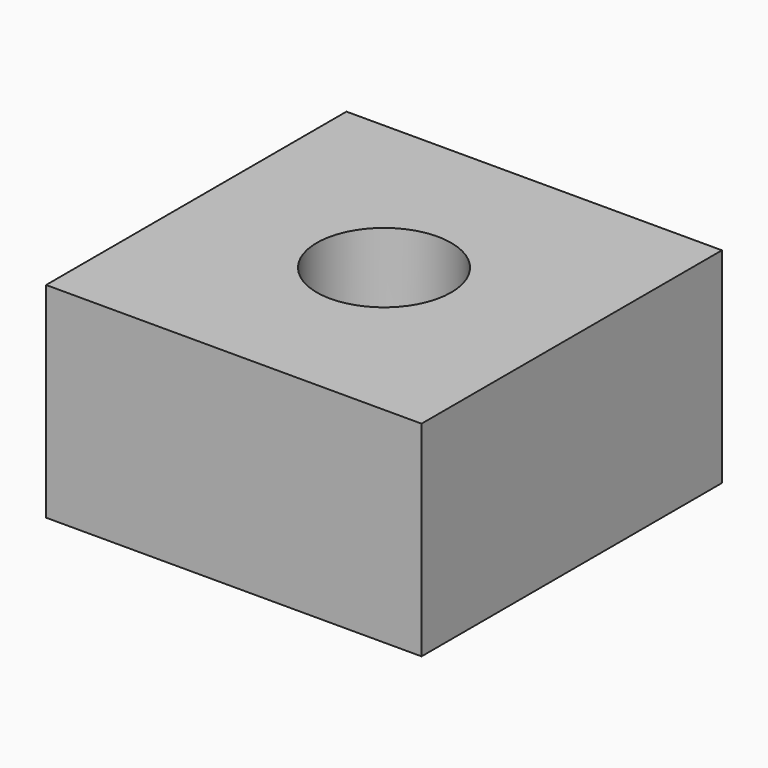
from build123d import *

# Parameters (mm, degrees)
SKETCH_W  = 34.91
SKETCH_H  = 34.91
SKETCH_R  = 6.25
PAD_DEPTH = 19.05


with BuildPart() as part:
    # Sketch → Pad (new body)
    with BuildSketch(Plane.XY):
        with Locations((36.535, 36.535)):
            Rectangle(SKETCH_W, SKETCH_H)
        with Locations((36.535, 36.535)):
            Circle(SKETCH_R, mode=Mode.SUBTRACT)
    extrude(amount=PAD_DEPTH)


solid = part.part
